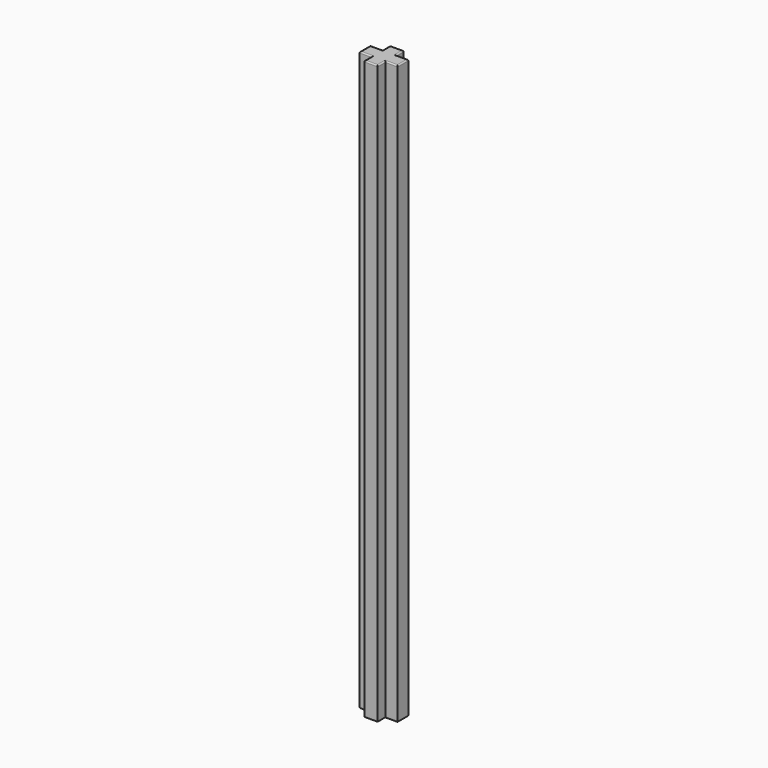
from build123d import *

# Parameters (mm, degrees)
F0_W     = 1.66
F0_H     = 1.1787281516
F0_W_2   = 1.5189777559
F0_H_2   = 1.66
F1_DEPTH = 71.45
F2_R     = 0.15
F3_R     = 0.15


with BuildPart() as f1:
    # F0 (on Top) → F1 (new body)
    with BuildSketch(Plane.XY):
        with Locations((0, 1.4193640758)):
            Rectangle(F0_W, F0_H)
        with Locations((1.5894888779, 0)):
            Rectangle(F0_W_2, F0_H_2)
        Rectangle(F0_W, F0_H_2)
        with Locations((-1.5894888779, 0)):
            Rectangle(F0_W_2, F0_H_2)
        with Locations((0, -1.4193640758)):
            Rectangle(F0_W, F0_H)
    extrude(amount=F1_DEPTH)

    # F2
    f2_edges = [f1.edges().sort_by_distance(p)[0] for p in [
        (-2.348978, 0, 71.45),
        (-1.589489, 0.83, 71.45),
        (-0.83, 1.419364, 71.45),
        (0, 2.008728, 71.45),
        (0.83, 1.419364, 71.45),
        (2.348978, 0, 71.45),
        (1.589489, 0.83, 71.45),
        (1.589489, -0.83, 71.45),
        (0.83, -1.419364, 71.45),
        (0, -2.008728, 71.45),
        (-0.83, -1.419364, 71.45),
        (-1.589489, -0.83, 71.45),
    ]]
    fillet(f2_edges, radius=F2_R)

    # F3
    f3_edges = [f1.edges().sort_by_distance(p)[0] for p in [
        (-1.589489, -0.83, 0),
        (-2.348978, 0, 0),
        (-1.589489, 0.83, 0),
        (-0.83, 1.419364, 0),
        (0, 2.008728, 0),
        (0.83, 1.419364, 0),
        (1.589489, 0.83, 0),
        (2.348978, 0, 0),
        (1.589489, -0.83, 0),
        (0.83, -1.419364, 0),
        (0, -2.008728, 0),
        (-0.83, -1.419364, 0),
    ]]
    fillet(f3_edges, radius=F3_R)


solid = f1.part
